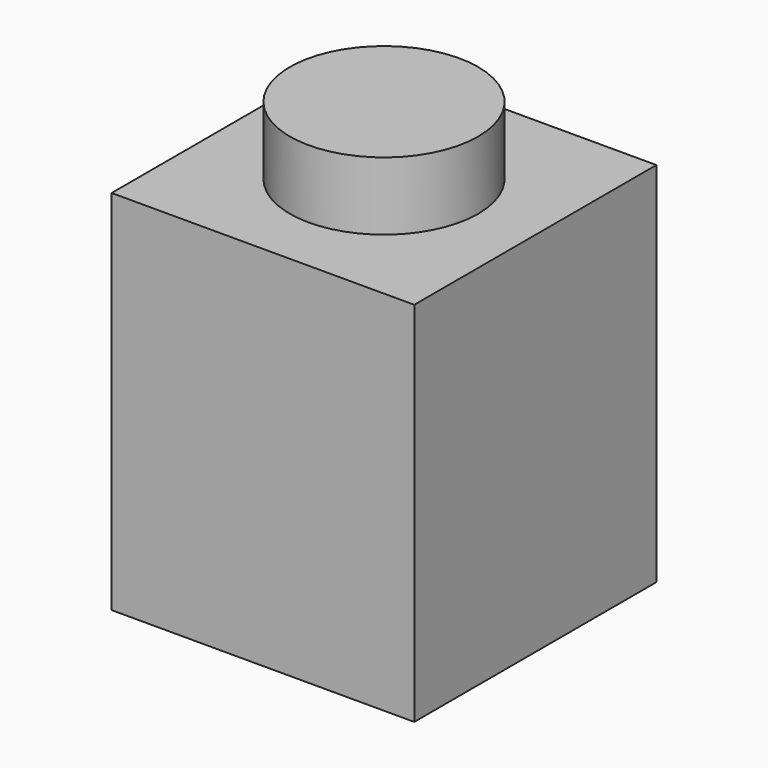
from build123d import *

# Parameters (mm, degrees)
F0_W     = 7.9121
F0_H     = 7.9121
F2_DEPTH = 9.6012
F1_R     = 2.462464
F3_DEPTH = 1.778
F4_W     = 5.4229
F4_H     = 5.4229
F5_DEPTH = 7.62


with BuildPart() as f2:
    # F0 (on Top) → F2 (new body)
    with BuildSketch(Plane.XY):
        Rectangle(F0_W, F0_H)
    extrude(amount=-F2_DEPTH)

    # F1 (on face) → F3 (join)
    with BuildSketch(Plane.XY):
        Circle(F1_R)
    extrude(amount=F3_DEPTH)

    # F4 (on face) → F5 (cut)
    with BuildSketch(Plane(origin=(0, 0, -9.6012), x_dir=(1, 0, 0), z_dir=(0, 0, -1))):
        Rectangle(F4_W, F4_H)
    extrude(amount=-F5_DEPTH, mode=Mode.SUBTRACT)


solid = f2.part
